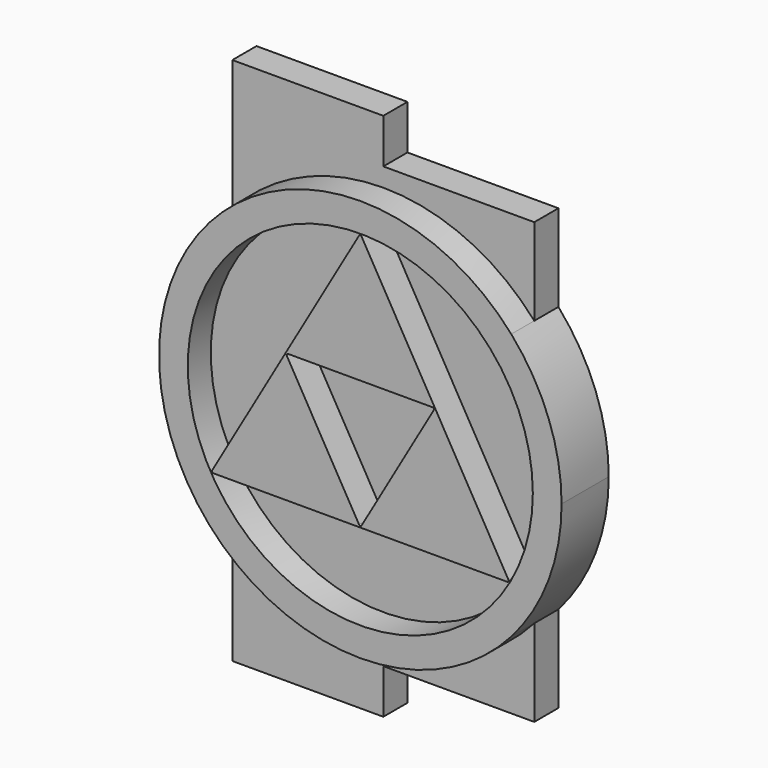
from build123d import *

# Parameters (mm, degrees)
F1_DEPTH = 2.1
F2_R     = 12
F3_DEPTH = 2


with BuildPart() as f1:
    # F0 (on Front) → F1 (new body)
    with BuildSketch(Plane.XZ):
        with BuildLine():
            ThreePointArc((-10.5, 9.26013), (-13.095801, 4.949747), (-14, 0))
            ThreePointArc((-14, 0), (-13.095801, -4.949747), (-10.5, -9.26013))
            Line((-10.5, -9.26013), (-10.5, -18.4))
            Line((-10.5, -18.4), (0, -18.4))
            Line((0, -18.4), (0, -15.3))
            Line((0, -15.3), (10.5, -15.3))
            Line((10.5, -15.3), (10.5, -9.26013))
            ThreePointArc((10.5, -9.26013), (13.095801, -4.949747), (14, 0))
            ThreePointArc((14, 0), (13.095801, 4.949747), (10.5, 9.26013))
            Line((10.5, 9.26013), (10.5, 15.3))
            Line((10.5, 15.3), (0, 15.3))
            Line((0, 15.3), (0, 18.4))
            Line((0, 18.4), (-10.5, 18.4))
            Line((-10.5, 18.4), (-10.5, 9.26013))
        make_face()
    extrude(amount=F1_DEPTH)

    # F2 (on face) → F3 (join)
    with BuildSketch(Plane.XZ.offset(2.1)):
        with BuildLine():
            ThreePointArc((10.5, -9.26013), (13.095801, -4.949747), (14, 0))
            ThreePointArc((14, 0), (13.095801, 4.949747), (10.5, 9.26013))
            ThreePointArc((10.5, 9.26013), (0, 14), (-10.5, 9.26013))
            ThreePointArc((-10.5, 9.26013), (-14, 0), (-10.5, -9.26013))
            ThreePointArc((-10.5, -9.26013), (0, -14), (10.5, -9.26013))
        make_face()
        Circle(F2_R, mode=Mode.SUBTRACT)
        with BuildLine():
            Line((10.305702, -5.85), (0.086603, 11.85))
            ThreePointArc((0.086603, 11.85), (0, 11.9), (-0.086603, 11.85))
            Line((-0.086603, 11.85), (-10.305702, -5.85))
            ThreePointArc((-10.305702, -5.85), (-10.305702, -5.95), (-10.2191, -6))
            Line((-10.2191, -6), (10.2191, -6))
            ThreePointArc((10.2191, -6), (10.305702, -5.95), (10.305702, -5.85))
        make_face()
        with BuildLine():
            ThreePointArc((0.086603, -5.85), (0, -5.9), (-0.086603, -5.85))
            Line((-0.086603, -5.85), (-5.10955, 2.85))
            ThreePointArc((-5.10955, 2.85), (-5.10955, 2.95), (-5.022947, 3))
            Line((-5.022947, 3), (5.022947, 3))
            ThreePointArc((5.022947, 3), (5.10955, 2.95), (5.10955, 2.85))
            Line((5.10955, 2.85), (0.086603, -5.85))
        make_face(mode=Mode.SUBTRACT)
    extrude(amount=F3_DEPTH)


solid = f1.part
